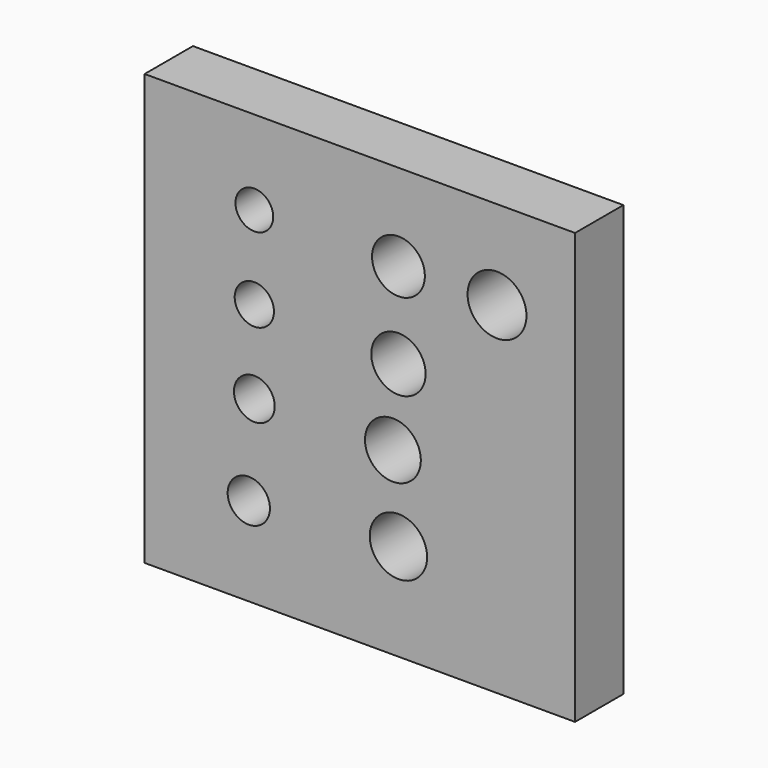
from build123d import *

# Parameters (mm, degrees)
F0_W     = 28.51
F0_H     = 28.51
F0_R     = 1.4
F0_R_2   = 1.35
F0_R_3   = 1.9
F0_R_4   = 1.85
F0_R_5   = 1.3
F0_R_6   = 1.25
F0_R_7   = 1.8
F0_R_8   = 1.75
F0_R_9   = 1.95
F1_DEPTH = 4


with BuildPart() as f1:
    # F0 (on Front) → F1 (new body)
    with BuildSketch(Plane.XZ):
        with Locations((14.255, 14.255)):
            Rectangle(F0_W, F0_H)
        with Locations((6.899489, 5.872041)):
            Circle(F0_R, mode=Mode.SUBTRACT)
        with Locations((7.266622, 11.929733)):
            Circle(F0_R_2, mode=Mode.SUBTRACT)
        with Locations((16.812077, 6.422739)):
            Circle(F0_R_3, mode=Mode.SUBTRACT)
        with Locations((16.444944, 11.929733)):
            Circle(F0_R_4, mode=Mode.SUBTRACT)
        with Locations((7.266622, 17.436726)):
            Circle(F0_R_5, mode=Mode.SUBTRACT)
        with Locations((7.266622, 22.94372)):
            Circle(F0_R_6, mode=Mode.SUBTRACT)
        with Locations((16.812077, 17.069593)):
            Circle(F0_R_7, mode=Mode.SUBTRACT)
        with Locations((16.812077, 22.760153)):
            Circle(F0_R_8, mode=Mode.SUBTRACT)
        with Locations((23.340013, 22.629237)):
            Circle(F0_R_9, mode=Mode.SUBTRACT)
    extrude(amount=F1_DEPTH)


solid = f1.part
